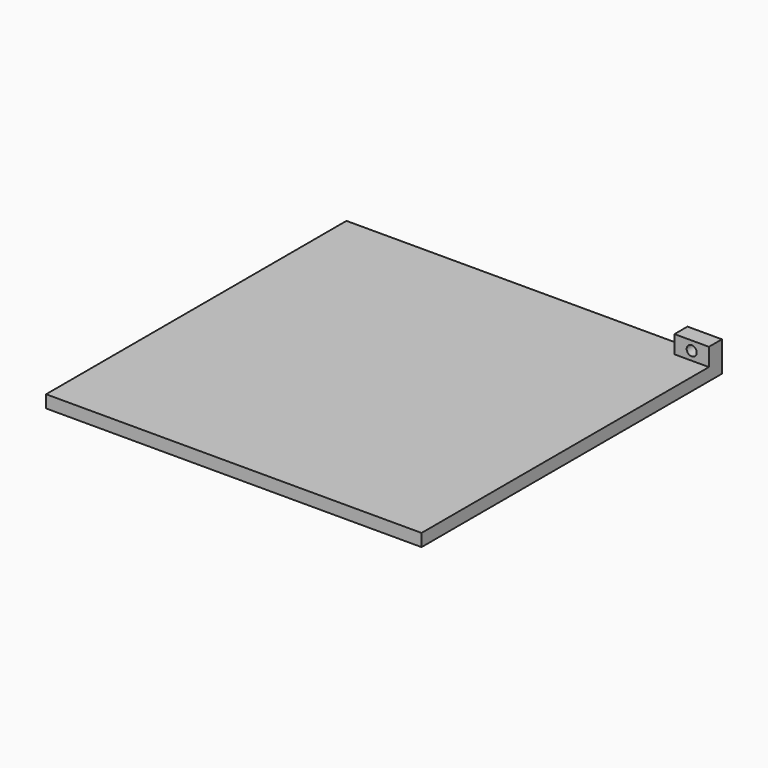
from build123d import *

# Parameters (mm, degrees)
F0_W     = 600
F0_H     = 20
F1_DEPTH = 600
F2_W     = 55
F2_H     = 26
F3_DEPTH = 28.5
F4_R     = 8
F5_DEPTH = 26


with BuildPart() as f1:
    # F0 (on Front) → F1 (new body)
    with BuildSketch(Plane.XZ):
        with Locations((-2.310631, 10)):
            Rectangle(F0_W, F0_H)
    extrude(amount=F1_DEPTH)

    # F2 (on face) → F3 (join)
    with BuildSketch(Plane.XY.offset(20)):
        with Locations((270.189369, -13)):
            Rectangle(F2_W, F2_H)
        with Locations((270.189369, -13)):
            Rectangle(F2_W, F2_H)
    extrude(amount=F3_DEPTH)

    # F4 (on face) → F5 (cut, through all)
    with BuildSketch(Plane.XZ.offset(26)):
        with Locations((270.189369, 34.000836)):
            Circle(F4_R)
    extrude(amount=-F5_DEPTH, mode=Mode.SUBTRACT)


solid = f1.part
